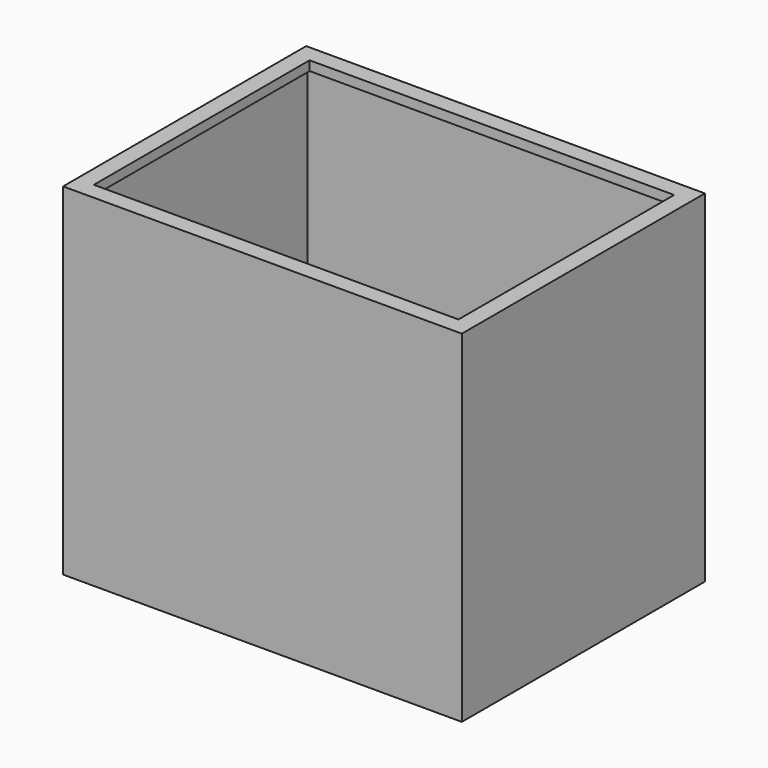
from build123d import *

# Parameters (mm, degrees)
F0_W     = 210
F0_H     = 160
F1_DEPTH = 180
F2_T     = -4
F3_W     = 210
F3_H     = 160
F3_W_2   = 191.999994
F3_H_2   = 141.999994
F4_DEPTH = 5


with BuildPart() as f1:
    # F0 (on Top) → F1 (new body)
    with BuildSketch(Plane.XY):
        Rectangle(F0_W, F0_H)
    extrude(amount=F1_DEPTH)

    # F2
    f2_openings = [f1.faces().sort_by_distance(p)[0] for p in [
        (0, 0, 180),
        (0, 0, 0),
    ]]
    offset(amount=F2_T, openings=f2_openings)

    # F3 (on face) → F4 (join)
    with BuildSketch(Plane.XY.offset(180)):
        Rectangle(F3_W, F3_H)
        Rectangle(F3_W_2, F3_H_2, mode=Mode.SUBTRACT)
    extrude(amount=-F4_DEPTH)


solid = f1.part
